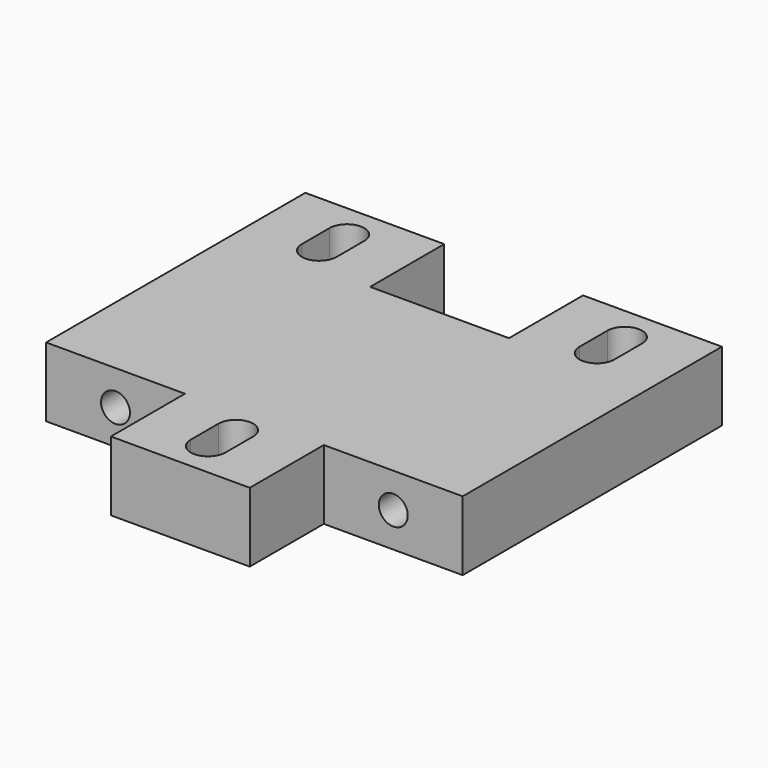
from build123d import *

# Parameters (mm, degrees)
F1_DEPTH = 6
F2_DEPTH = 6
F3_R     = 1.25
F4_DEPTH = 21.1718439024
F5_R     = 1.25
F6_DEPTH = 21.1718439024


with BuildPart() as f1:
    # F0 (on Top) → F1 (new body)
    with BuildSketch(Plane.XY):
        Polygon((-6, -18), (6, -18), (6, -10), (18, -10), (18, 18), (6, 18), (6, 10), (-6, 10), (-6, 18), (-18, 18), (-18, -10), (-6, -10), align=None)
        with BuildLine():
            Line((1.5, -12), (1.5, -15))
            ThreePointArc((1.5, -15), (0, -16.5), (-1.5, -15))
            Line((-1.5, -15), (-1.5, -12))
            ThreePointArc((-1.5, -12), (0, -10.5), (1.5, -12))
        make_face(mode=Mode.SUBTRACT)
        with BuildLine():
            ThreePointArc((-13.5, 15), (-12, 16.5), (-10.5, 15))
            Line((-10.5, 15), (-10.5, 12))
            ThreePointArc((-10.5, 12), (-12, 10.5), (-13.5, 12))
            Line((-13.5, 12), (-13.5, 15))
        make_face(mode=Mode.SUBTRACT)
        with BuildLine():
            Line((10.5, 12), (10.5, 15))
            ThreePointArc((10.5, 15), (12, 16.5), (13.5, 15))
            Line((13.5, 15), (13.5, 12))
            ThreePointArc((13.5, 12), (12, 10.5), (10.5, 12))
        make_face(mode=Mode.SUBTRACT)
    extrude(amount=F1_DEPTH)

    # F0 (on Top) → F2 (join)
    with BuildSketch(Plane.XY):
        Polygon((-6, -18), (6, -18), (6, -10), (18, -10), (18, 18), (6, 18), (6, 10), (-6, 10), (-6, 18), (-18, 18), (-18, -10), (-6, -10), align=None)
        with BuildLine():
            Line((1.5, -12), (1.5, -15))
            ThreePointArc((1.5, -15), (0, -16.5), (-1.5, -15))
            Line((-1.5, -15), (-1.5, -12))
            ThreePointArc((-1.5, -12), (0, -10.5), (1.5, -12))
        make_face(mode=Mode.SUBTRACT)
        with BuildLine():
            ThreePointArc((-13.5, 15), (-12, 16.5), (-10.5, 15))
            Line((-10.5, 15), (-10.5, 12))
            ThreePointArc((-10.5, 12), (-12, 10.5), (-13.5, 12))
            Line((-13.5, 12), (-13.5, 15))
        make_face(mode=Mode.SUBTRACT)
        with BuildLine():
            Line((10.5, 12), (10.5, 15))
            ThreePointArc((10.5, 15), (12, 16.5), (13.5, 15))
            Line((13.5, 15), (13.5, 12))
            ThreePointArc((13.5, 12), (12, 10.5), (10.5, 12))
        make_face(mode=Mode.SUBTRACT)
    extrude(amount=F2_DEPTH)

    # F3 (on face) → F4 (cut, through all)
    with BuildSketch(Plane.XZ.offset(10)):
        with Locations((-12, 3)):
            Circle(F3_R)
        with Locations((12, 3)):
            Circle(F3_R)
    extrude(amount=-F4_DEPTH, mode=Mode.SUBTRACT)

    # F5 (on face) → F6 (cut, through all)
    with BuildSketch(Plane(origin=(0, 10, 0), x_dir=(-1, 0, 0), z_dir=(0, 1, 0))):
        with Locations((0, 3)):
            Circle(F5_R)
    extrude(amount=-F6_DEPTH, mode=Mode.SUBTRACT)


solid = f1.part
